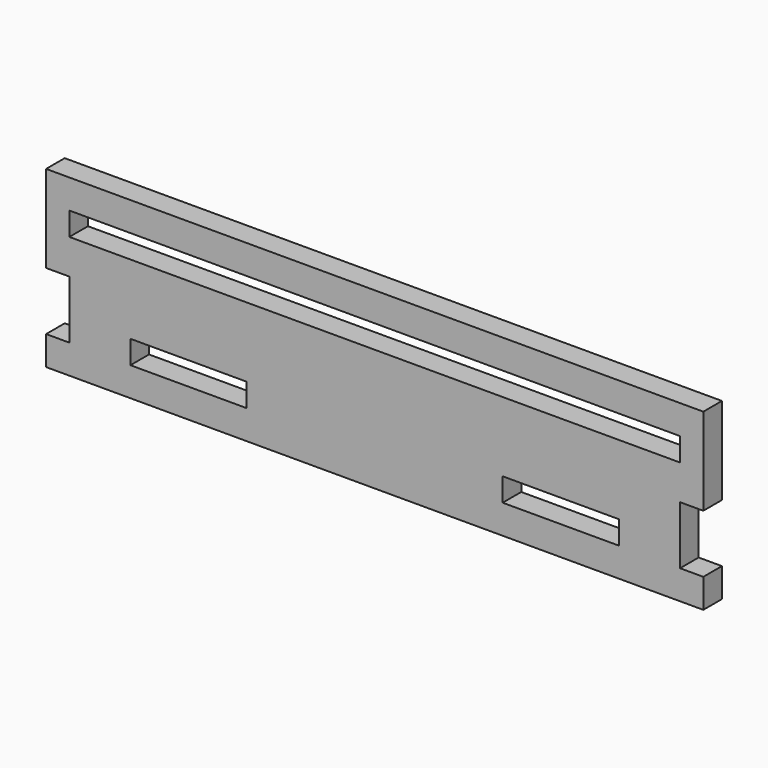
from build123d import *

# Parameters (mm, degrees)
F0_W     = 20
F0_H     = 4
F0_W_2   = 105
F1_DEPTH = 4


with BuildPart() as f1:
    # F0 (on Front) → F1 (new body)
    with BuildSketch(Plane.XZ):
        Polygon((56.5, 0), (56.5, 15), (-56.5, 15), (-56.5, 0), (-52.5, 0), (-52.5, -10), (-56.5, -10), (-56.5, -15), (56.5, -15), (56.5, -10), (52.5, -10), (52.5, 0), align=None)
        with Locations((-32, -8)):
            Rectangle(F0_W, F0_H, mode=Mode.SUBTRACT)
        with Locations((32, -8)):
            Rectangle(F0_W, F0_H, mode=Mode.SUBTRACT)
        with Locations((0, 8)):
            Rectangle(F0_W_2, F0_H, mode=Mode.SUBTRACT)
    extrude(amount=F1_DEPTH)


solid = f1.part
